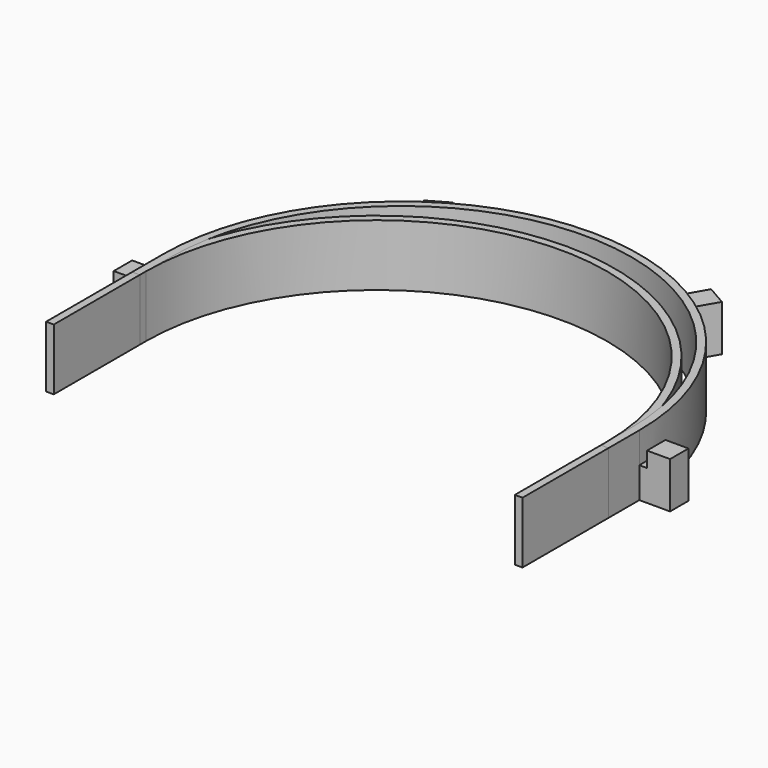
from build123d import *

# Parameters (mm, degrees)
PAD_DEPTH             = 8
PAD001_DEPTH          = 8
SKETCH003_W           = 3
SKETCH003_H           = 4
PAD002_DEPTH          = 4
PAD002_DEPTH_BACK     = 1
SKETCH004_W           = 3
SKETCH004_H           = 3
PAD003_DEPTH          = 2
POLARPATTERN_COUNT    = 4
POLARPATTERN_ANGLE    = 180
POLARPATTERN001_COUNT = 4
POLARPATTERN001_ANGLE = 180


with BuildPart() as body:
    # Sketch → Pad (new body)
    with BuildSketch(Plane.XY):
        with BuildLine():
            ThreePointArc((30, 0), (0, 30), (-30, 0))
            Line((-30, 0), (-30, -15))
            Line((-30, -15), (-31, -15))
            Line((-31, -15), (-31, 0))
            ThreePointArc((31, 0), (0, 31), (-31, 0))
            Line((31, -15), (31, 0))
            Line((30, -15), (31, -15))
            Line((30, 0), (30, -15))
        make_face()
    extrude(amount=PAD_DEPTH)


with BuildPart() as body001:
    # Sketch002 → Pad001 (new body)
    with BuildSketch(Plane.XY):
        with BuildLine():
            ThreePointArc((30, 0), (0, 30), (-30, 0))
            Line((-30, 0), (-30, -5))
            Line((-30, -5), (-31, -5))
            Line((-31, -5), (-31, 0))
            ThreePointArc((31, 0), (0, 31), (-31, 0))
            Line((31, -5), (31, 0))
            Line((30, -5), (31, -5))
            Line((30, 0), (30, -5))
        make_face()
    extrude(amount=PAD001_DEPTH)

    # Sketch003 (on Face4 of Pad001) → Pad002 (join, two sides)
    with BuildSketch(Plane(origin=(-31, 0, 0), x_dir=(0, -1, 0), z_dir=(-1, 0, 0))) as pad002_sk:
        with Locations((1.5, 2)):
            Rectangle(SKETCH003_W, SKETCH003_H)
    pad002 = extrude(amount=PAD002_DEPTH) + extrude(pad002_sk.sketch, amount=-PAD002_DEPTH_BACK)

    # Sketch004 (on Face11 of Pad002) → Pad003 (join)
    with BuildSketch(Plane.XY.offset(4)):
        with Locations((-33.5, -1.5)):
            Rectangle(SKETCH004_W, SKETCH004_H)
    pad003 = extrude(amount=PAD003_DEPTH)

    # PolarPattern: Pad002 ×4 about axis
    polarpattern_axis = Axis((0, 0, 0), (0, 0, -1))
    for i in range(1, POLARPATTERN_COUNT):
        add(pad002.rotate(polarpattern_axis, i * POLARPATTERN_ANGLE / (POLARPATTERN_COUNT - 1)))

    # PolarPattern001: Pad003 ×4 about axis
    polarpattern001_axis = Axis((0, 0, 0), (0, 0, -1))
    for i in range(1, POLARPATTERN001_COUNT):
        add(pad003.rotate(polarpattern001_axis, i * POLARPATTERN001_ANGLE / (POLARPATTERN001_COUNT - 1)))


with BuildPart() as body001_1:
    # Body001 placement: moved
    add(body001.part.moved(Location((0, 4, 0))))


solid = Compound([body.part, body001_1.part])
